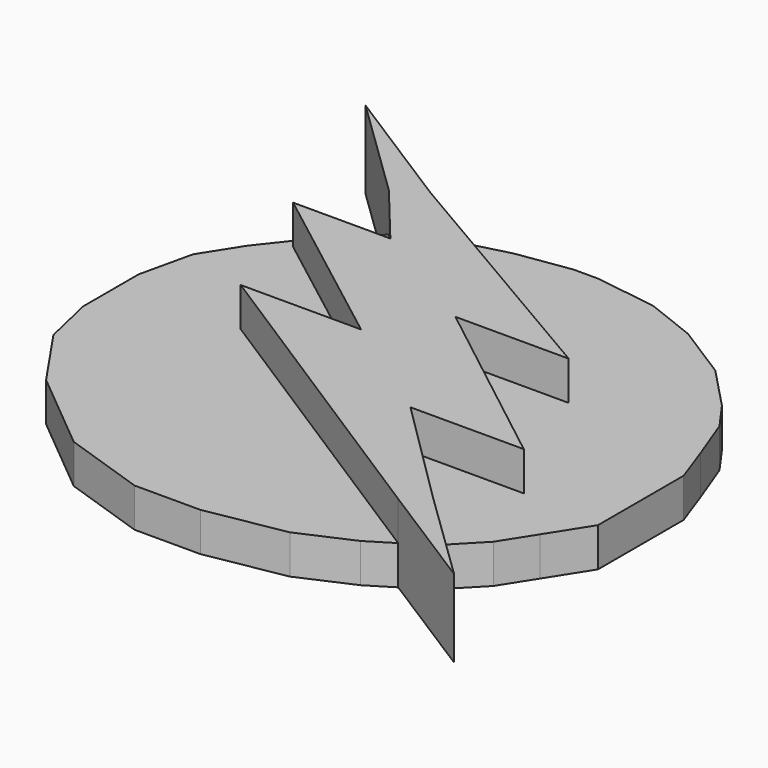
from build123d import *

# Parameters (mm, degrees)
F1_DEPTH = 12.7
F2_DEPTH = 6.35


with BuildPart() as f1:
    # F0 (on Top) → F1 (new body)
    with BuildSketch(Plane.XY):
        Polygon((22.474717, 12.095485), (-20.022932, 36.940265), (-41.326346, 50.449748), (-24.396872, 34.043866), (-15.936619, 23.769072), (-31.791512, 23.769072), (-3.187324, 1.866438), (-22.801625, 1.866438), (29.666629, -31.641328), (48.181905, -43.382723), (33.589493, -29.257998), (15.119358, -10.951318), (33.589493, -10.951318), (4.004587, 12.095485), align=None)
    extrude(amount=F1_DEPTH)

    # F0 (on Top) → F2 (join)
    with BuildSketch(Plane.XY):
        Polygon((4.004587, 41.190032), (0, 41.190032), (-8.744708, 39.88241), (-20.022932, 36.940265), (22.474717, 12.095485), (4.004587, 12.095485), (33.589493, -10.951318), (15.119358, -10.951318), (33.589493, -29.257998), (38.892256, -23.779654), (42.238043, -18.503606), (46.43552, -11.884507), (46.43552, -3.675631), (46.43552, 5.557385), (44.213898, 11.76858), (41.435212, 19.123944), (38.166158, 23.700614), (31.46461, 30.72907), (22.434429, 36.455527), (14.13864, 39.718959), align=None)
        Polygon((22.474717, 12.095485), (-20.022932, 36.940265), (-41.326346, 50.449748), (-24.396872, 34.043866), (-15.936619, 23.769072), (-31.791512, 23.769072), (-3.187324, 1.866438), (-22.801625, 1.866438), (29.666629, -31.641328), (48.181905, -43.382723), (33.589493, -29.257998), (15.119358, -10.951318), (33.589493, -10.951318), (4.004587, 12.095485), align=None)
        Polygon((-15.936619, 23.769072), (-24.396872, 34.043866), (-31.791512, 26.413227), (-36.553774, 20.371506), (-40.454496, 14.220368), (-42.415924, 5.557385), (-42.415924, -5.720838), (-40.454496, -14.242595), (-33.426039, -24.517875), (-20.022932, -35.632648), (-6.456373, -40.209316), (4.331491, -40.209316), (17.080786, -37.920982), (25.580317, -34.161571), (29.666629, -31.641328), (-22.801625, 1.866438), (-3.187324, 1.866438), (-31.791512, 23.769072), align=None)
    extrude(amount=F2_DEPTH)


solid = f1.part
